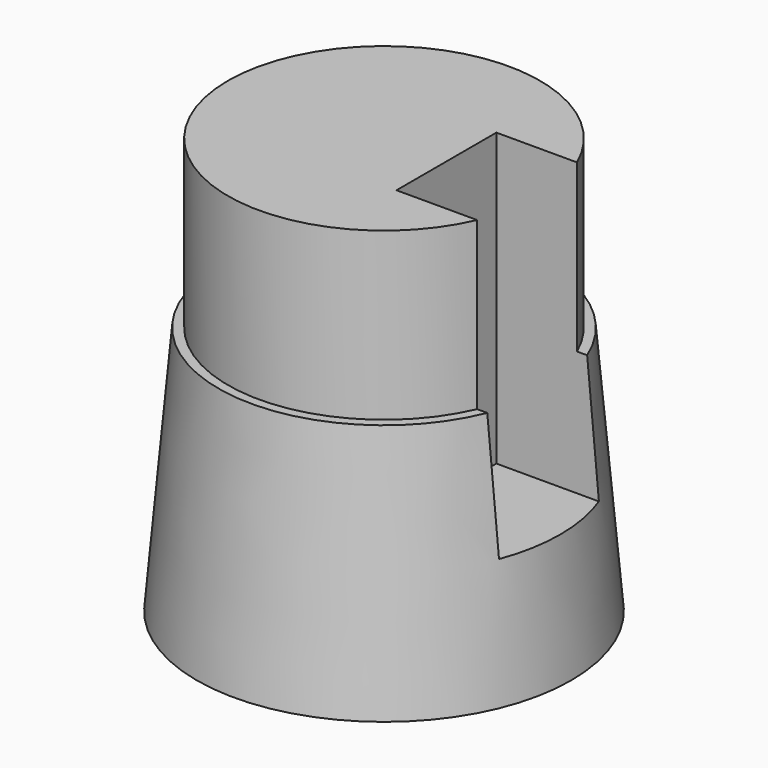
from build123d import *

# Parameters (mm, degrees)
F0_R     = 9
F1_DEPTH = 20
F1_TAPER = 5
F2_R     = 7.5
F2_R_2   = 7.2502267295
F3_DEPTH = 10
F4_R     = 9
F4_R_2   = 7.5
F5_DEPTH = 8
F7_DEPTH = 14


with BuildPart() as f1:
    # F0 (on Top) → F1 (new body)
    with BuildSketch(Plane.XY):
        Circle(F0_R)
    extrude(amount=F1_DEPTH, taper=F1_TAPER)

    # F2 (on face) → F3 (join)
    with BuildSketch(Plane.XY.offset(20)):
        Circle(F2_R)
        Circle(F2_R_2, mode=Mode.SUBTRACT)
    extrude(amount=-F3_DEPTH)

    # F4 (on face) → F5 (cut)
    with BuildSketch(Plane.XY.offset(20)):
        Circle(F4_R)
        Circle(F4_R_2, mode=Mode.SUBTRACT)
    extrude(amount=-F5_DEPTH, mode=Mode.SUBTRACT)

    # F6 (on face) → F7 (cut)
    with BuildSketch(Plane.XY.offset(20)):
        with BuildLine():
            Line((6.8738635424, -3), (8.9953789802, -3))
            Line((8.9953789802, -3), (8.9953789802, 3))
            Line((8.9953789802, 3), (6.8738635424, 3))
            ThreePointArc((6.8738635424, 3), (7.341797347, 1.5323223277), (7.5, 0))
            ThreePointArc((7.5, 0), (7.341797347, -1.5323223277), (6.8738635424, -3))
        make_face()
        with BuildLine():
            Line((3, -3), (6.8738635424, -3))
            ThreePointArc((6.8738635424, -3), (7.341797347, -1.5323223277), (7.5, 0))
            ThreePointArc((7.5, 0), (7.341797347, 1.5323223277), (6.8738635424, 3))
            Line((6.8738635424, 3), (3, 3))
            Line((3, 3), (3, -3))
        make_face()
    extrude(amount=-F7_DEPTH, mode=Mode.SUBTRACT)


solid = f1.part
